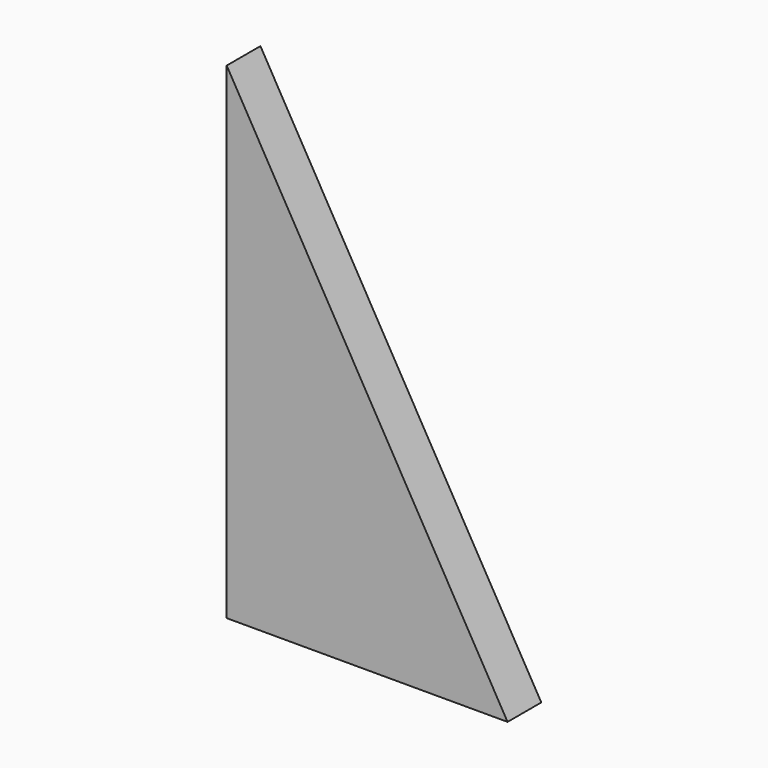
from build123d import *

# Parameters (mm, degrees)
F1_DEPTH = 3


with BuildPart() as f1:
    # F0 (on Front) → F1 (new body)
    with BuildSketch(Plane.XZ):
        Polygon((0, 34.6410161514), (0, 0), (20, 0), align=None)
    extrude(amount=F1_DEPTH)


with BuildPart() as f1_1:
    # F2: moved
    add(f1.part.moved(Location((0, -25.4, 0))))


solid = f1_1.part
